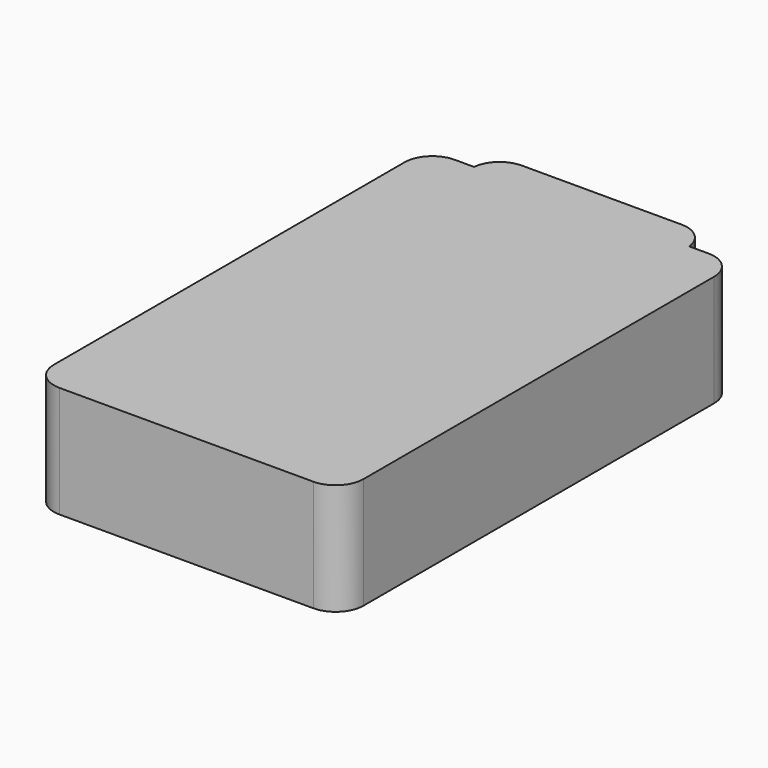
from build123d import *

# Parameters (mm, degrees)
F1_DEPTH = 25.4


with BuildPart() as f1:
    # F0 (on Top) → F1 (new body)
    with BuildSketch(Plane.XY):
        with BuildLine():
            ThreePointArc((24.54447, 55.661607), (24.536622, 55.977219), (24.513096, 56.292051))
            Line((24.513096, 56.292051), (-24.513096, 56.292051))
            ThreePointArc((-24.513096, 56.292051), (-24.536622, 55.977219), (-24.54447, 55.661607))
            Line((-24.54447, 55.661607), (-24.54447, 50.572495))
            Line((-24.54447, 50.572495), (24.54447, 50.572495))
            Line((24.54447, 50.572495), (24.54447, 55.661607))
        make_face()
        with BuildLine():
            ThreePointArc((35.280632, 49.942051), (33.42076, 54.432179), (28.930632, 56.292051))
            Line((28.930632, 56.292051), (24.513096, 56.292051))
            ThreePointArc((24.513096, 56.292051), (24.536622, 55.977219), (24.54447, 55.661607))
            Line((24.54447, 55.661607), (24.54447, 50.572495))
            Line((24.54447, 50.572495), (-24.54447, 50.572495))
            Line((-24.54447, 50.572495), (-24.54447, 55.661607))
            ThreePointArc((-24.54447, 55.661607), (-24.536622, 55.977219), (-24.513096, 56.292051))
            Line((-24.513096, 56.292051), (-28.930632, 56.292051))
            ThreePointArc((-28.930632, 56.292051), (-33.42076, 54.432179), (-35.280632, 49.942051))
            Line((-35.280632, 49.942051), (-35.280632, -49.942051))
            ThreePointArc((-35.280632, -49.942051), (-33.42076, -54.432179), (-28.930632, -56.292051))
            Line((-28.930632, -56.292051), (28.930632, -56.292051))
            ThreePointArc((28.930632, -56.292051), (33.42076, -54.432179), (35.280632, -49.942051))
            Line((35.280632, -49.942051), (35.280632, 49.942051))
        make_face()
        with BuildLine():
            Line((-24.513096, 56.292051), (24.513096, 56.292051))
            ThreePointArc((24.513096, 56.292051), (22.455877, 60.369357), (18.19447, 62.011607))
            Line((18.19447, 62.011607), (-18.19447, 62.011607))
            ThreePointArc((-18.19447, 62.011607), (-22.455877, 60.369357), (-24.513096, 56.292051))
        make_face()
    extrude(amount=F1_DEPTH)


solid = f1.part
